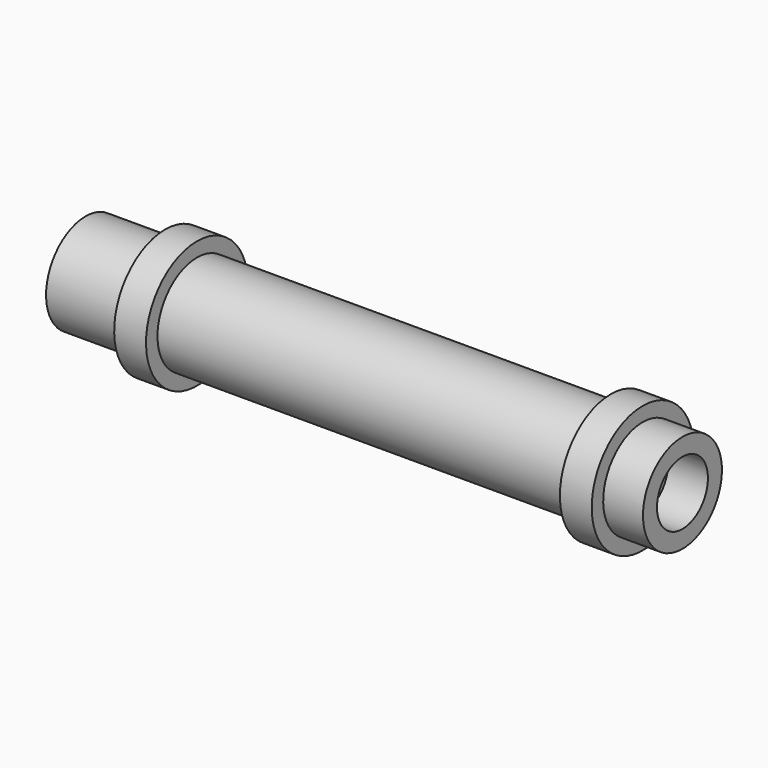
from build123d import *


with BuildPart() as f1:
    # F0 (on Front) → F1 (revolve)
    with BuildSketch(Plane.XZ):
        Polygon((2.5, 3.1), (-2.5, 3.1), (-2.5, 2), (2.5, 2), (2.5, 0), (32.5, 0), (32.5, 2), (35, 2), (35, 3.1), (32.5, 3.1), (32.5, 4), (30.5, 4), (30.5, 3.1), (4.5, 3.1), (4.5, 4), (2.5, 4), align=None)
    revolve(axis=Axis((8.809999, 0, 0), (1, 0, 0)))


solid = f1.part
